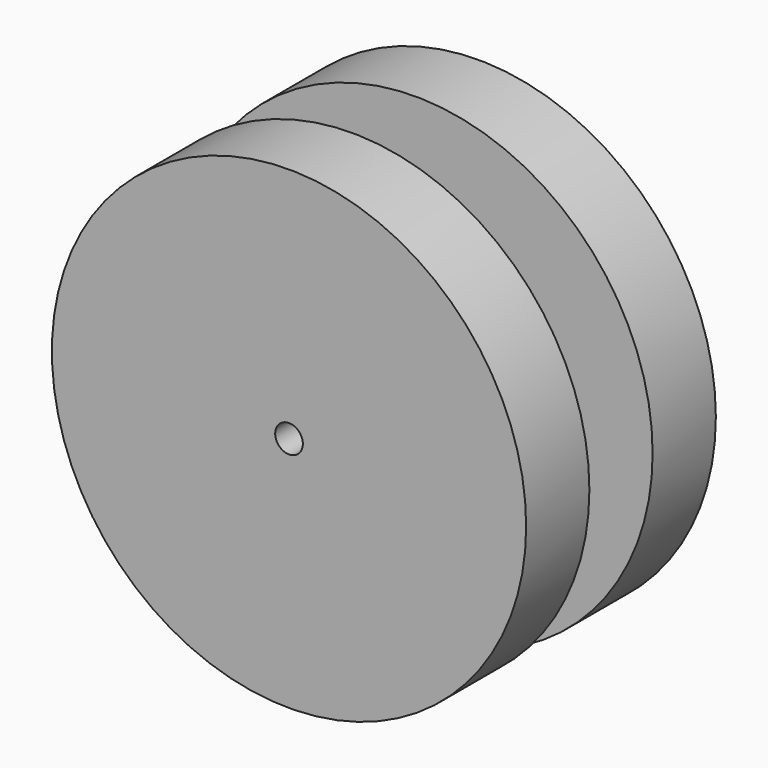
from build123d import *

# Parameters (mm, degrees)
F0_R     = 76.2
F2_DEPTH = 25.4
F1_R     = 4.445
F3_DEPTH = 25.4
F4_R     = 3.175
F5_DEPTH = 25.4
F6_R     = 76.2
F7_DEPTH = 25.4
F8_R     = 4.445
F9_DEPTH = 25.4


with BuildPart() as f2:
    # F0 (on Front) → F2 (new body)
    with BuildSketch(Plane.XZ):
        Circle(F0_R)
    extrude(amount=F2_DEPTH)

    # F1 (on face) → F3 (cut)
    with BuildSketch(Plane.XZ):
        Circle(F1_R)
    extrude(amount=F3_DEPTH, mode=Mode.SUBTRACT)

    # F4 (on face) → F5 (join)
    with BuildSketch(Plane.XZ.offset(25.4)):
        with Locations((38.1, 0)):
            Circle(F4_R)
        with Locations((0, 38.1)):
            Circle(F4_R)
        with Locations((-38.1, 0)):
            Circle(F4_R)
        with Locations((0, -38.1)):
            Circle(F4_R)
    extrude(amount=F5_DEPTH)

    # F6 (on face) → F7 (join)
    with BuildSketch(Plane.XZ.offset(50.8)):
        Circle(F6_R)
    extrude(amount=F7_DEPTH)

    # F8 (on face) → F9 (cut)
    with BuildSketch(Plane.XZ.offset(76.2)):
        Circle(F8_R)
    extrude(amount=-F9_DEPTH, mode=Mode.SUBTRACT)


solid = f2.part
